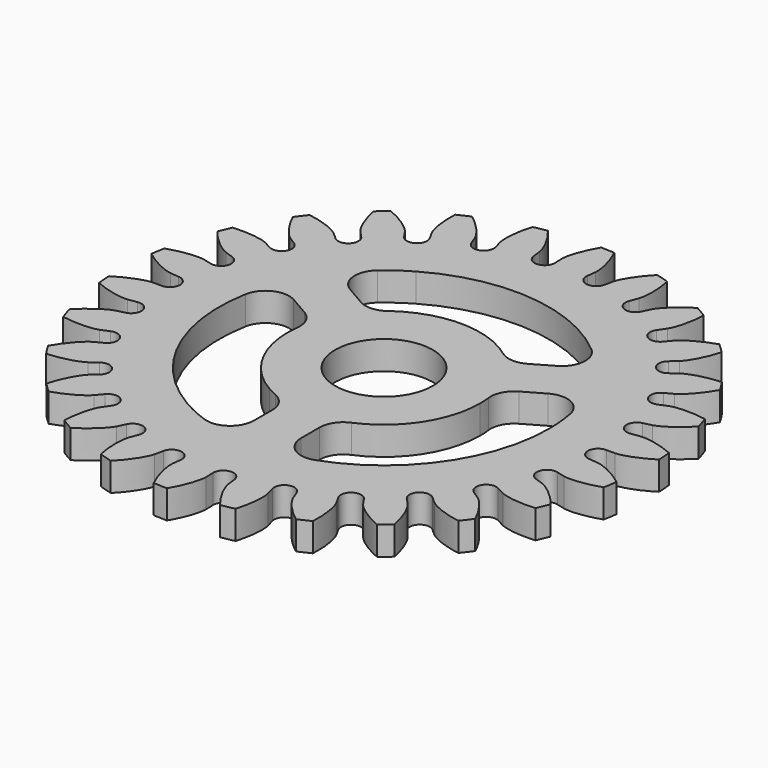
from build123d import *

# Parameters (mm, degrees)
F5_DEPTH  = 6
F7_DEPTH  = 6
F4_R      = 28
F8_DEPTH  = 3
F9_COUNT  = 26
F12_DEPTH = 25
F13_DEPTH = 6
F14_R     = 2.5
F15_COUNT = 3


with BuildPart() as f5:
    # F3 (on Top) → F5 (new body)
    with BuildSketch(Plane.XY):
        with BuildLine():
            ThreePointArc((27.7233486659, -3.9263136333), (27.9307515352, -1.9680240539), (28, 0))
            ThreePointArc((28, 0), (27.9913598746, 0.6955374709), (27.9654448305, 1.3906456895))
            add(Edge.make_bspline(
                [(24.4320081404, 0), (24.4741804975, 0.0016534793), (24.4535787792, 4.84006e-05), (24.6208155096, 0.0130778044), (24.8120530364, 0.043179393), (25.1071501606, 0.1037222912), (25.4727517683, 0.2034596709), (25.91033581, 0.3489741568), (26.4340061695, 0.56241011), (26.9466501447, 0.796258683), (27.7595777209, 1.2534824411), (27.6505122091, 1.192139531), (27.9654448305, 1.3906456895)],
                knots=[0, 0, 0, 0, 0.0334556114, 0.0914011941, 0.1662084921, 0.2547216392, 0.3550860947, 0.4660431642, 0.5866662092, 0.7162361395, 0.8541738605, 0.9698291468, 0.9698291468, 0.9698291468, 0.9698291468], degree=3))
            Line((24.4320081404, 0), (23.5, 0))
            ThreePointArc((23.5, 0), (23.4756772681, -1.0689138437), (23.4027594208, -2.1356150146))
            Line((23.4027594208, -2.1356150146), (24.3309110076, -2.2203133371))
            add(Edge.make_bspline(
                [(24.3309110076, -2.2203133371), (24.3727585961, -2.2257924816), (24.3523879907, -2.2223218174), (24.5177486366, -2.2504953185), (24.7054592931, -2.2978514874), (24.9938333646, -2.3849614759), (25.3488582933, -2.5175110157), (25.7714077032, -2.7021898054), (26.2735146995, -2.9623322967), (26.7627858951, -3.2418008952), (27.53079843, -3.7710093186), (27.4277588941, -3.7000086671), (27.7233486659, -3.9263136333)],
                knots=[0, 0, 0, 0, 0.0334556114, 0.0914011941, 0.1662084921, 0.2547216392, 0.3550860947, 0.4660431642, 0.5866662092, 0.7162361395, 0.8541738605, 0.9698291468, 0.9698291468, 0.9698291468, 0.9698291468], degree=3))
        make_face()
    extrude(amount=F5_DEPTH)

    # F6 (on face) → F7 (join)
    with BuildSketch(Plane(origin=(0, 0, 0), x_dir=(1, 0, 0), z_dir=(0, 0, -1))):
        with BuildLine():
            ThreePointArc((23.5, 0), (23.4756772681, 1.0689138437), (23.4027594208, 2.1356150146))
            ThreePointArc((23.4027594208, 2.1356150146), (22.4075933557, 1.0202809686), (23.5, 0))
        make_face()
    extrude(amount=-F7_DEPTH)


with BuildPart() as f8:
    # F4 (on Top) → F8 (new body)
    with BuildSketch(Plane.XY):
        Circle(F4_R)
    extrude(amount=F8_DEPTH)


with BuildPart() as f9_1:
    # F9: instance of F5
    add(f5.part.rotate(Axis((0, 0, 3), (0, 0, 1)), 1 * 360 / F9_COUNT))


with BuildPart() as f9_2:
    # F9: instance of F5
    add(f5.part.rotate(Axis((0, 0, 3), (0, 0, 1)), 2 * 360 / F9_COUNT))


with BuildPart() as f9_3:
    # F9: instance of F5
    add(f5.part.rotate(Axis((0, 0, 3), (0, 0, 1)), 3 * 360 / F9_COUNT))


with BuildPart() as f9_4:
    # F9: instance of F5
    add(f5.part.rotate(Axis((0, 0, 3), (0, 0, 1)), 4 * 360 / F9_COUNT))


with BuildPart() as f9_5:
    # F9: instance of F5
    add(f5.part.rotate(Axis((0, 0, 3), (0, 0, 1)), 5 * 360 / F9_COUNT))


with BuildPart() as f9_6:
    # F9: instance of F5
    add(f5.part.rotate(Axis((0, 0, 3), (0, 0, 1)), 6 * 360 / F9_COUNT))


with BuildPart() as f9_7:
    # F9: instance of F5
    add(f5.part.rotate(Axis((0, 0, 3), (0, 0, 1)), 7 * 360 / F9_COUNT))


with BuildPart() as f9_8:
    # F9: instance of F5
    add(f5.part.rotate(Axis((0, 0, 3), (0, 0, 1)), 8 * 360 / F9_COUNT))


with BuildPart() as f9_9:
    # F9: instance of F5
    add(f5.part.rotate(Axis((0, 0, 3), (0, 0, 1)), 9 * 360 / F9_COUNT))


with BuildPart() as f9_10:
    # F9: instance of F5
    add(f5.part.rotate(Axis((0, 0, 3), (0, 0, 1)), 10 * 360 / F9_COUNT))


with BuildPart() as f9_11:
    # F9: instance of F5
    add(f5.part.rotate(Axis((0, 0, 3), (0, 0, 1)), 11 * 360 / F9_COUNT))


with BuildPart() as f9_12:
    # F9: instance of F5
    add(f5.part.rotate(Axis((0, 0, 3), (0, 0, 1)), 12 * 360 / F9_COUNT))


with BuildPart() as f9_13:
    # F9: instance of F5
    add(f5.part.rotate(Axis((0, 0, 3), (0, 0, 1)), 13 * 360 / F9_COUNT))


with BuildPart() as f9_14:
    # F9: instance of F5
    add(f5.part.rotate(Axis((0, 0, 3), (0, 0, 1)), 14 * 360 / F9_COUNT))


with BuildPart() as f9_15:
    # F9: instance of F5
    add(f5.part.rotate(Axis((0, 0, 3), (0, 0, 1)), 15 * 360 / F9_COUNT))


with BuildPart() as f9_16:
    # F9: instance of F5
    add(f5.part.rotate(Axis((0, 0, 3), (0, 0, 1)), 16 * 360 / F9_COUNT))


with BuildPart() as f9_17:
    # F9: instance of F5
    add(f5.part.rotate(Axis((0, 0, 3), (0, 0, 1)), 17 * 360 / F9_COUNT))


with BuildPart() as f9_18:
    # F9: instance of F5
    add(f5.part.rotate(Axis((0, 0, 3), (0, 0, 1)), 18 * 360 / F9_COUNT))


with BuildPart() as f9_19:
    # F9: instance of F5
    add(f5.part.rotate(Axis((0, 0, 3), (0, 0, 1)), 19 * 360 / F9_COUNT))


with BuildPart() as f9_20:
    # F9: instance of F5
    add(f5.part.rotate(Axis((0, 0, 3), (0, 0, 1)), 20 * 360 / F9_COUNT))


with BuildPart() as f9_21:
    # F9: instance of F5
    add(f5.part.rotate(Axis((0, 0, 3), (0, 0, 1)), 21 * 360 / F9_COUNT))


with BuildPart() as f9_22:
    # F9: instance of F5
    add(f5.part.rotate(Axis((0, 0, 3), (0, 0, 1)), 22 * 360 / F9_COUNT))


with BuildPart() as f9_23:
    # F9: instance of F5
    add(f5.part.rotate(Axis((0, 0, 3), (0, 0, 1)), 23 * 360 / F9_COUNT))


with BuildPart() as f9_24:
    # F9: instance of F5
    add(f5.part.rotate(Axis((0, 0, 3), (0, 0, 1)), 24 * 360 / F9_COUNT))


with BuildPart() as f9_25:
    # F9: instance of F5
    add(f5.part.rotate(Axis((0, 0, 3), (0, 0, 1)), 25 * 360 / F9_COUNT))


with BuildPart() as f8_1:
    add(f8.part)

    # F10: cut F9_5, F9_6, F9_7, F9_8, F9_9, F9_10, F9_11, F9_12, F9_13, F9_14, F9_15, F9_16, F9_17, F9_18, F9_19, F9_20, F9_21, F9_22, F9_23, F9_24, F9_25, F5, F9_1, F9_2, F9_3, F9_4
    add(f9_5.part, mode=Mode.SUBTRACT)
    add(f9_6.part, mode=Mode.SUBTRACT)
    add(f9_7.part, mode=Mode.SUBTRACT)
    add(f9_8.part, mode=Mode.SUBTRACT)
    add(f9_9.part, mode=Mode.SUBTRACT)
    add(f9_10.part, mode=Mode.SUBTRACT)
    add(f9_11.part, mode=Mode.SUBTRACT)
    add(f9_12.part, mode=Mode.SUBTRACT)
    add(f9_13.part, mode=Mode.SUBTRACT)
    add(f9_14.part, mode=Mode.SUBTRACT)
    add(f9_15.part, mode=Mode.SUBTRACT)
    add(f9_16.part, mode=Mode.SUBTRACT)
    add(f9_17.part, mode=Mode.SUBTRACT)
    add(f9_18.part, mode=Mode.SUBTRACT)
    add(f9_19.part, mode=Mode.SUBTRACT)
    add(f9_20.part, mode=Mode.SUBTRACT)
    add(f9_21.part, mode=Mode.SUBTRACT)
    add(f9_22.part, mode=Mode.SUBTRACT)
    add(f9_23.part, mode=Mode.SUBTRACT)
    add(f9_24.part, mode=Mode.SUBTRACT)
    add(f9_25.part, mode=Mode.SUBTRACT)
    add(f5.part, mode=Mode.SUBTRACT)
    add(f9_1.part, mode=Mode.SUBTRACT)
    add(f9_2.part, mode=Mode.SUBTRACT)
    add(f9_3.part, mode=Mode.SUBTRACT)
    add(f9_4.part, mode=Mode.SUBTRACT)

    # F11 (on face) → F12 (cut)
    with BuildSketch(Plane(origin=(0, 0, 0), x_dir=(1, 0, 0), z_dir=(0, 0, -1))):
        with BuildLine():
            Line((2.5, 1.443375673), (2.5, 4.513219515))
            ThreePointArc((2.5, 4.513219515), (-4.4681498177, -2.5796875), (5.1585627529, -0.091546248))
            Line((5.1585627529, -0.091546248), (2.5, 1.443375673))
        make_face()
        with BuildLine():
            ThreePointArc((5.1585627529, -0.091546248), (5.1591719342, -0.0457749257), (5.159375, 0))
            ThreePointArc((5.159375, 0), (4.4450864947, 2.6192282156), (2.5, 4.513219515))
            Line((2.5, 4.513219515), (2.5, 1.443375673))
            Line((2.5, 1.443375673), (5.1585627529, -0.091546248))
        make_face()
    extrude(amount=-F12_DEPTH, mode=Mode.SUBTRACT)


with BuildPart() as f13:
    # F11 (on face) → F13 (new body)
    with BuildSketch(Plane(origin=(0, 0, 0), x_dir=(1, 0, 0), z_dir=(0, 0, -1))):
        with BuildLine():
            Line((2.5, 17.2505976302), (2.5, 9.8469741744))
            ThreePointArc((2.5, 9.8469741744), (8.0190815525, 6.2375661476), (10.159375, 0))
            ThreePointArc((10.159375, 0), (10.0635114133, -1.3923499653), (9.7777297854, -2.7584235777))
            Line((9.7777297854, -2.7584235777), (16.1894557782, -6.4602353056))
            ThreePointArc((16.1894557782, -6.4602353056), (17.1176580993, -3.2892096003), (17.4308094648, 0))
            ThreePointArc((17.4308094648, 0), (13.1797219671, 11.4073681219), (2.5, 17.2505976302))
        make_face()
    extrude(amount=-F13_DEPTH)

    # F14
    f14_edges = [f13.edges().sort_by_distance(p)[0] for p in [
        (2.5, -17.250598, 3),
        (2.5, -9.846974, 3),
        (9.77773, 2.758424, 3),
        (16.189456, 6.460235, 3),
    ]]
    fillet(f14_edges, radius=F14_R)


with BuildPart() as f15_1:
    # F15: instance of F13
    add(f13.part.rotate(Axis((0, 0, 3), (0, 0, -1)), 1 * 360 / F15_COUNT))


with BuildPart() as f15_2:
    # F15: instance of F13
    add(f13.part.rotate(Axis((0, 0, 3), (0, 0, -1)), 2 * 360 / F15_COUNT))


with BuildPart() as f8_2:
    add(f8_1.part)

    # F16: cut F15_2, F15_1, F13
    add(f15_2.part, mode=Mode.SUBTRACT)
    add(f15_1.part, mode=Mode.SUBTRACT)
    add(f13.part, mode=Mode.SUBTRACT)


solid = f8_2.part
